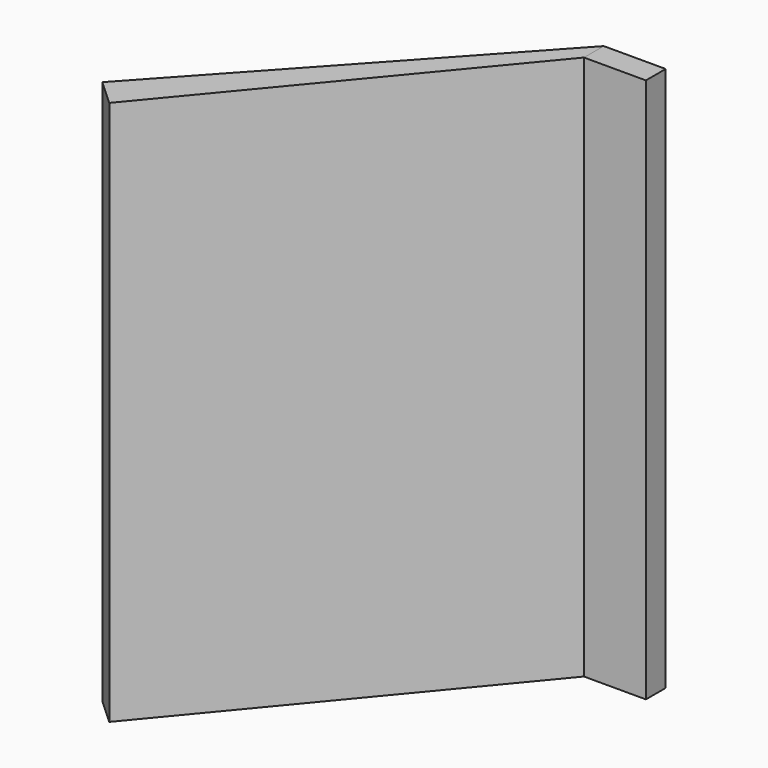
from build123d import *

# Parameters (mm, degrees)
F0_W     = 31.75
F0_H     = 279.4
F1_DEPTH = 12.7
F3_DEPTH = 279.4


with BuildPart() as f1:
    # F0 (on Front) → F1 (new body)
    with BuildSketch(Plane.XZ):
        Rectangle(F0_W, F0_H)
    extrude(amount=F1_DEPTH)


with BuildPart() as f3:
    # F2 (on face) → F3 (new body)
    with BuildSketch(Plane.XY.offset(139.7)):
        Polygon((-15.875, -12.7), (-15.875, 0), (-153.111229, -149.854788), (-139.687307, -162.148345), align=None)
    extrude(amount=-F3_DEPTH)


solid = Compound([f1.part, f3.part])
